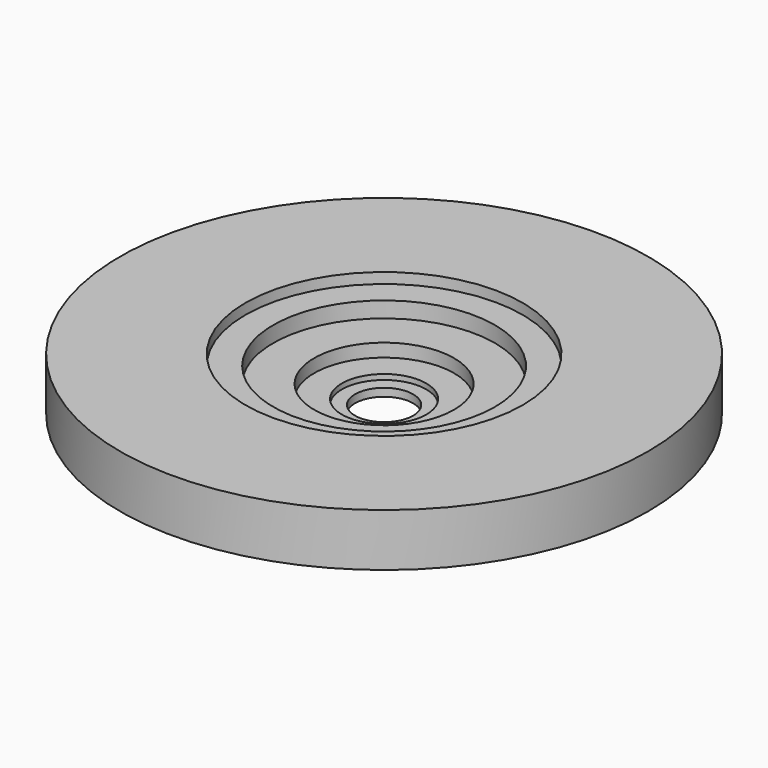
from build123d import *

# Parameters (mm, degrees)
F0_W = 1.9
F0_H = 0.5
F2_W = 2.35
F2_H = 1
F4_W = 3.8
F4_H = 1.6
F6_W = 4.75
F6_H = 2
F8_W = 1.4
F8_H = 0.3


with BuildPart() as f1:
    # F0 (on Front) → F1 (revolve)
    with BuildSketch(Plane.XZ):
        with Locations((2.55, 0.25)):
            Rectangle(F0_W, F0_H)
    revolve(axis=Axis((0, 0, 1.23983), (0, 0, 1)))


with BuildPart() as f3:
    # F2 (on Front) → F3 (revolve)
    with BuildSketch(Plane.XZ):
        with Locations((3.825, 0.5)):
            Rectangle(F2_W, F2_H)
    revolve(axis=Axis((0, 0, 1.906276), (0, 0, 1)))


with BuildPart() as f5:
    # F4 (on Front) → F5 (revolve)
    with BuildSketch(Plane.XZ):
        with Locations((6.1, 0.8)):
            Rectangle(F4_W, F4_H)
    revolve(axis=Axis((0, 0, 1.491251), (0, 0, 1)))


with BuildPart() as f7:
    # F6 (on Front) → F7 (revolve)
    with BuildSketch(Plane.XZ):
        with Locations((7.625, 1)):
            Rectangle(F6_W, F6_H)
    revolve(axis=Axis((0, 0, 6.946455), (0, 0, 1)))


with BuildPart() as f9:
    # F8 (on Front) → F9 (revolve)
    with BuildSketch(Plane.XZ):
        with Locations((1.8, 0.15)):
            Rectangle(F8_W, F8_H)
    revolve(axis=Axis((0, 0, 0.487175), (0, 0, 1)))


solid = Compound([f1.part, f3.part, f5.part, f7.part, f9.part])
